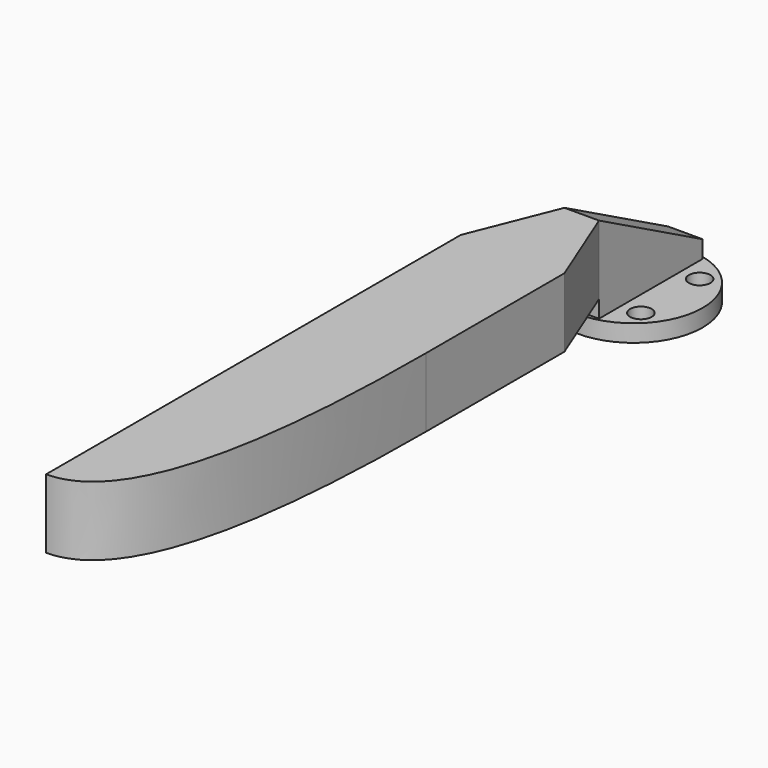
from build123d import *

# Parameters (mm, degrees)
SKETCH_R     = 8
SKETCH_R_2   = 1.25
PAD_DEPTH    = 2
SKETCH001_W  = 4
SKETCH001_H  = 15
PAD001_DEPTH = 10
SKETCH002_W  = 4
SKETCH002_H  = 8
PAD002_DEPTH = 30
POCKET_DEPTH = 5
PAD003_DEPTH = 8


with BuildPart() as part:
    # Sketch → Pad (new body)
    with BuildSketch(Plane.XY):
        Circle(SKETCH_R)
        with Locations((-4.25, 4.25)):
            Circle(SKETCH_R_2, mode=Mode.SUBTRACT)
        with Locations((4.25, 4.25)):
            Circle(SKETCH_R_2, mode=Mode.SUBTRACT)
        with Locations((4.25, -4.25)):
            Circle(SKETCH_R_2, mode=Mode.SUBTRACT)
        with Locations((-4.25, -4.25)):
            Circle(SKETCH_R_2, mode=Mode.SUBTRACT)
    extrude(amount=PAD_DEPTH)

    # Sketch001 (on Face7 of Pad) → Pad001 (join)
    with BuildSketch(Plane.XY.offset(2)):
        Rectangle(SKETCH001_W, SKETCH001_H)
    extrude(amount=PAD001_DEPTH)

    # Sketch002 (on Face9 of Pad001) → Pad002 (join)
    with BuildSketch(Plane.XZ.offset(7.5)):
        with Locations((0, 8)):
            Rectangle(SKETCH002_W, SKETCH002_H)
    extrude(amount=PAD002_DEPTH)

    # Sketch003 (on Face10 of Pad002) → Pocket (cut)
    with BuildSketch(Plane.YZ.offset(2)):
        Polygon((-7.5, 12), (7.5, 4), (17.5, 4), (17.5, 22), (-7.5, 22), align=None)
    extrude(amount=-POCKET_DEPTH, mode=Mode.SUBTRACT)

    # Sketch004 (on Face16 of Pocket) → Pad003 (join)
    with BuildSketch(Plane.XY.offset(12)):
        with BuildLine():
            Line((-2, -7.5), (2, -7.5))
            Line((2, -7.5), (6, -17.5))
            Line((6, -17.5), (6, -37.5))
            add(Edge.make_bspline(
                [(6, -37.5), (6, -77.5), (-6, -77.5)],
                knots=[0, 0, 0, 1, 1, 1], degree=2))
            Line((-6, -77.5), (-6, -17.5))
            Line((-6, -17.5), (-2, -7.5))
        make_face()
    extrude(amount=-PAD003_DEPTH)


solid = part.part
